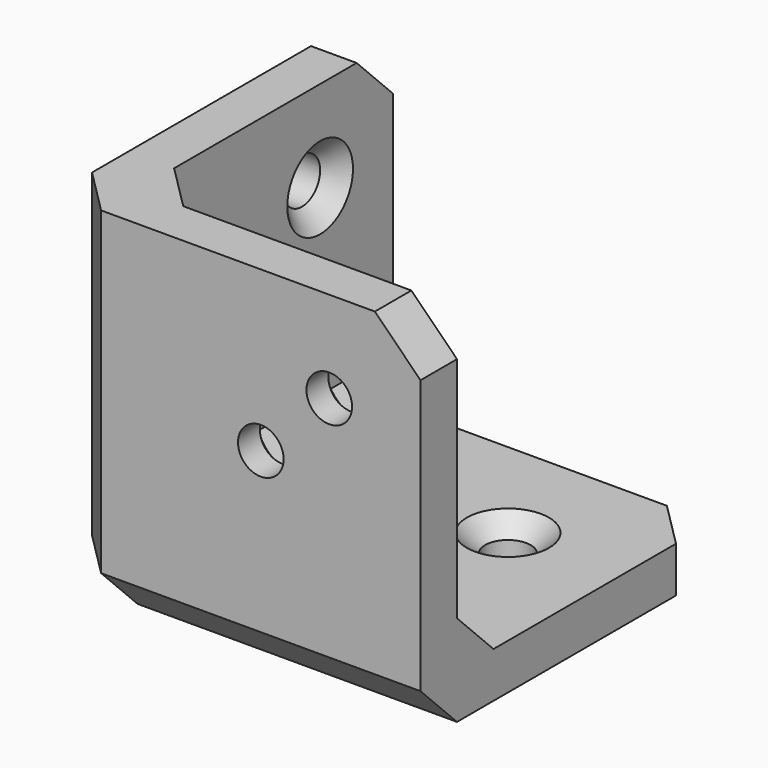
from build123d import *

# Parameters (mm, degrees)
F0_W     = 5
F0_H     = 35
F0_H_2   = 5
F0_W_2   = 35
F0_R     = 2.5
F1_DEPTH = 5
F2_DEPTH = 40
F3_SIZE  = 5
F4_R     = 2.5
F5_DEPTH = 25
F6_R     = 2.5
F7_DEPTH = 25
F8_SIZE  = 2


with BuildPart() as f1:
    # F0 (on Top) → F1 (new body)
    with BuildSketch(Plane.XY):
        with Locations((2.5, 22.5)):
            Rectangle(F0_W, F0_H)
        with Locations((2.5, 2.5)):
            Rectangle(F0_W, F0_H_2)
        with Locations((22.5, 2.5)):
            Rectangle(F0_W_2, F0_H_2)
        with Locations((22.5, 22.5)):
            Rectangle(F0_W_2, F0_H)
        with Locations((20, 20)):
            Circle(F0_R, mode=Mode.SUBTRACT)
        with Locations((27.5, 20)):
            Circle(F0_R, mode=Mode.SUBTRACT)
        with Locations((20, 27.6)):
            Circle(F0_R, mode=Mode.SUBTRACT)
        with Locations((27.5, 27.6)):
            Circle(F0_R, mode=Mode.SUBTRACT)
        with Locations((20, 27.6)):
            Circle(F0_R)
        with Locations((27.5, 20)):
            Circle(F0_R)
    extrude(amount=F1_DEPTH)

    # F0 (on Top) → F2 (join)
    with BuildSketch(Plane.XY):
        with Locations((2.5, 22.5)):
            Rectangle(F0_W, F0_H)
        with Locations((2.5, 2.5)):
            Rectangle(F0_W, F0_H_2)
        with Locations((22.5, 2.5)):
            Rectangle(F0_W_2, F0_H_2)
    extrude(amount=F2_DEPTH)

    # F3
    f3_edges = [f1.edges().sort_by_distance(p)[0] for p in [
        (40, 40, 2.5),
        (2.5, 40, 40),
        (40, 2.5, 40),
        (0, 0, 20),
        (0, 20, 0),
        (20, 0, 0),
        (5, 22.5, 5),
        (5, 5, 22.5),
        (22.5, 5, 5),
    ]]
    chamfer(f3_edges, length=F3_SIZE)

    # F4 (on face) → F5 (cut)
    with BuildSketch(Plane.YZ.offset(5)):
        with Locations((30, 30)):
            Circle(F4_R)
        with Locations((22.5, 22.5)):
            Circle(F4_R)
    extrude(amount=-F5_DEPTH, mode=Mode.SUBTRACT)

    # F6 (on face) → F7 (cut)
    with BuildSketch(Plane(origin=(0, 5, 0), x_dir=(-1, 0, 0), z_dir=(0, 1, 0))):
        with Locations((-22.5, 22.5)):
            Circle(F6_R)
        with Locations((-30, 30)):
            Circle(F6_R)
    extrude(amount=-F7_DEPTH, mode=Mode.SUBTRACT)

    # F8
    f8_edges = [f1.edges().sort_by_distance(p)[0] for p in [
        (5, 27.5, 30),
        (5, 20, 22.5),
        (25, 5, 22.5),
        (32.5, 5, 30),
        (17.5, 20, 5),
        (25, 27.6, 5),
    ]]
    chamfer(f8_edges, length=F8_SIZE)


solid = f1.part
